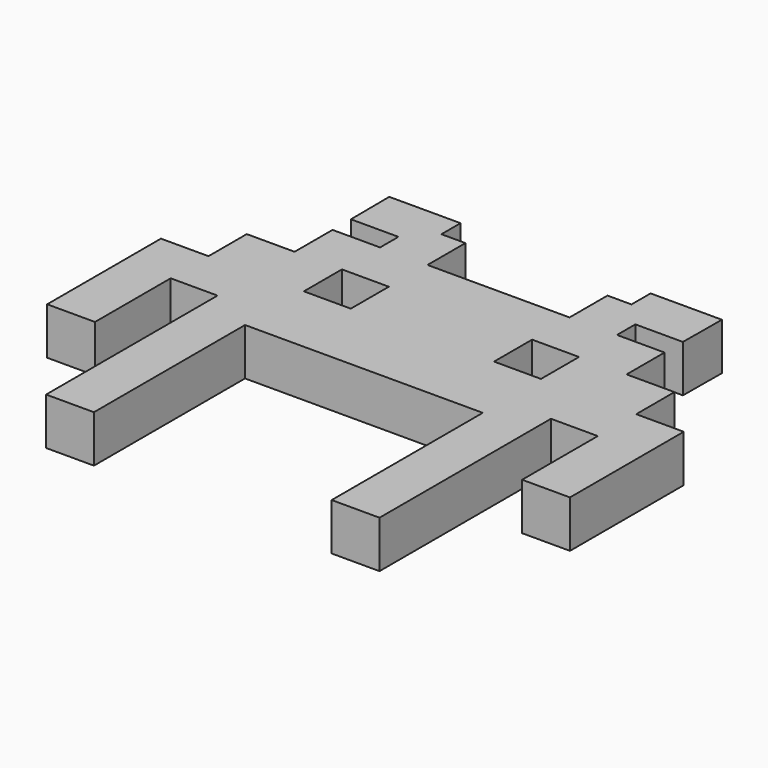
from build123d import *

# Parameters (mm, degrees)
F0_W     = 22.928893
F0_H     = 23.238743
F0_W_2   = 22.928894
F1_DEPTH = 23


with BuildPart() as f1:
    # F0 (on Top) → F1 (new body)
    with BuildSketch(Plane.XY):
        Polygon((81.298143, 48.370309), (81.466071, 71.999989), (46.619579, 71.999989), (46.619579, 60.31207), (34.888215, 60.31207), (34.888215, 37.153497), (0.184663, 37.153497), (0.184663, -45.085087), (58.270838, -45.085087), (58.270838, -137.37414), (81.650734, -137.37414), (81.650734, -32.66038), (104.538418, -32.66038), (104.538418, -78.883383), (127.91831, -78.883383), (127.91831, -9.380359), (104.68214, -9.380359), (104.68214, 13.991185), (81.298143, 13.991185), (81.298143, 37.153497), (58.069009, 37.153497), (58.069009, 48.370309), align=None)
        with Locations((46.651456, 2.286727)):
            Rectangle(F0_W, F0_H, mode=Mode.SUBTRACT)
        Polygon((0.184663, -45.085087), (0.184663, 37.153497), (-34.51889, 37.153497), (-34.51889, 60.31207), (-46.250254, 60.31207), (-46.250254, 71.999989), (-81.096746, 71.999989), (-80.928817, 48.370309), (-57.699684, 48.370309), (-57.699684, 37.153497), (-80.928817, 37.153497), (-80.928817, 13.991185), (-104.312815, 13.991185), (-104.312815, -9.380359), (-127.548985, -9.380359), (-127.548985, -78.883383), (-104.169093, -78.883383), (-104.169093, -32.66038), (-81.281409, -32.66038), (-81.281409, -137.37414), (-57.901513, -137.37414), (-57.901513, -45.085087), align=None)
        with Locations((-46.282131, 2.286727)):
            Rectangle(F0_W_2, F0_H, mode=Mode.SUBTRACT)
    extrude(amount=F1_DEPTH)


solid = f1.part
